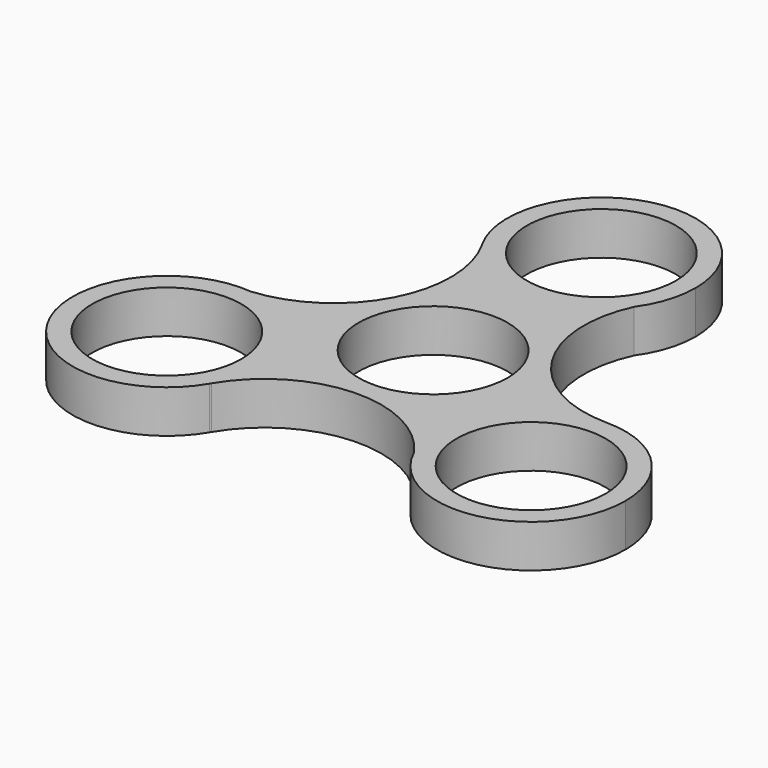
from build123d import *

# Parameters (mm, degrees)
F0_R     = 11.049
F1_DEPTH = 6.35
F2_DEPTH = 6.35


with BuildPart() as f1:
    # F0 (on Top) → F1 (new body)
    with BuildSketch(Plane.XY):
        with BuildLine():
            ThreePointArc((11.367233, 23.045917), (13.303405, 26.902848), (13.97, 31.166688))
            ThreePointArc((13.97, 31.166688), (-3.535139, 44.682001), (-12.180851, 24.326529))
            ThreePointArc((-12.180851, 24.326529), (-12.119797, 24.22086), (-12.059489, 24.114764))
            ThreePointArc((-12.059489, 24.114764), (-0.63672, 17.211205), (11.367233, 23.045917))
        make_face()
        with Locations((0, 31.166688)):
            Circle(F0_R, mode=Mode.SUBTRACT)
        with BuildLine():
            ThreePointArc((-12.059489, 24.114764), (-12.119797, 24.22086), (-12.180851, 24.326529))
            ThreePointArc((-12.180851, 24.326529), (-12.120632, 24.220381), (-12.059489, 24.114764))
        make_face()
        with BuildLine():
            ThreePointArc((26.913742, -1.613558), (12.420265, 6.479431), (11.367233, 23.045917))
            ThreePointArc((11.367233, 23.045917), (-0.63672, 17.211205), (-12.059489, 24.114764))
            ThreePointArc((-12.059489, 24.114764), (-11.821484, 7.51655), (-25.641966, -1.678646))
            ThreePointArc((-25.641966, -1.678646), (-16.646848, -6.194177), (-13.021143, -15.583344))
            ThreePointArc((-13.021143, -15.583344), (-13.487195, -19.16165), (-14.854254, -22.501205))
            ThreePointArc((-14.854254, -22.501205), (-0.598781, -13.995981), (14.274733, -21.367271))
            ThreePointArc((14.274733, -21.367271), (15.223701, -8.054187), (26.913742, -1.613558))
        make_face()
        Circle(F0_R, mode=Mode.SUBTRACT)
        with BuildLine():
            ThreePointArc((27.157817, -1.614338), (27.035778, -1.614378), (26.913742, -1.613558))
            ThreePointArc((26.913742, -1.613558), (15.223701, -8.054187), (14.274733, -21.367271))
            ThreePointArc((14.274733, -21.367271), (29.950252, -29.23635), (40.961143, -15.583344))
            ThreePointArc((40.961143, -15.583344), (36.928178, -5.764167), (27.157817, -1.614338))
        make_face()
        with Locations((26.991143, -15.583344)):
            Circle(F0_R, mode=Mode.SUBTRACT)
        with BuildLine():
            ThreePointArc((27.157817, -1.614338), (27.035782, -1.613415), (26.913742, -1.613558))
            ThreePointArc((26.913742, -1.613558), (27.035778, -1.614378), (27.157817, -1.614338))
        make_face()
        with BuildLine():
            ThreePointArc((-13.021143, -15.583344), (-16.646848, -6.194177), (-25.641966, -1.678646))
            ThreePointArc((-25.641966, -1.678646), (-39.450971, -21.901064), (-14.976967, -22.712191))
            ThreePointArc((-14.976967, -22.712191), (-14.915981, -22.606482), (-14.854254, -22.501205))
            ThreePointArc((-14.854254, -22.501205), (-13.487195, -19.16165), (-13.021143, -15.583344))
        make_face()
        with Locations((-26.991143, -15.583344)):
            Circle(F0_R, mode=Mode.SUBTRACT)
        with BuildLine():
            ThreePointArc((-14.854254, -22.501205), (-14.915981, -22.606482), (-14.976967, -22.712191))
            ThreePointArc((-14.976967, -22.712191), (-14.915149, -22.606966), (-14.854254, -22.501205))
        make_face()
    extrude(amount=F1_DEPTH)

    # F0 (on Top) → F2 (join)
    with BuildSketch(Plane.XY):
        with BuildLine():
            ThreePointArc((11.367233, 23.045917), (13.303405, 26.902848), (13.97, 31.166688))
            ThreePointArc((13.97, 31.166688), (-3.535139, 44.682001), (-12.180851, 24.326529))
            ThreePointArc((-12.180851, 24.326529), (-12.119797, 24.22086), (-12.059489, 24.114764))
            ThreePointArc((-12.059489, 24.114764), (-0.63672, 17.211205), (11.367233, 23.045917))
        make_face()
        with Locations((0, 31.166688)):
            Circle(F0_R, mode=Mode.SUBTRACT)
        with BuildLine():
            ThreePointArc((-12.059489, 24.114764), (-12.119797, 24.22086), (-12.180851, 24.326529))
            ThreePointArc((-12.180851, 24.326529), (-12.120632, 24.220381), (-12.059489, 24.114764))
        make_face()
        with BuildLine():
            ThreePointArc((26.913742, -1.613558), (12.420265, 6.479431), (11.367233, 23.045917))
            ThreePointArc((11.367233, 23.045917), (-0.63672, 17.211205), (-12.059489, 24.114764))
            ThreePointArc((-12.059489, 24.114764), (-11.821484, 7.51655), (-25.641966, -1.678646))
            ThreePointArc((-25.641966, -1.678646), (-16.646848, -6.194177), (-13.021143, -15.583344))
            ThreePointArc((-13.021143, -15.583344), (-13.487195, -19.16165), (-14.854254, -22.501205))
            ThreePointArc((-14.854254, -22.501205), (-0.598781, -13.995981), (14.274733, -21.367271))
            ThreePointArc((14.274733, -21.367271), (15.223701, -8.054187), (26.913742, -1.613558))
        make_face()
        Circle(F0_R, mode=Mode.SUBTRACT)
        with BuildLine():
            ThreePointArc((27.157817, -1.614338), (27.035778, -1.614378), (26.913742, -1.613558))
            ThreePointArc((26.913742, -1.613558), (15.223701, -8.054187), (14.274733, -21.367271))
            ThreePointArc((14.274733, -21.367271), (29.950252, -29.23635), (40.961143, -15.583344))
            ThreePointArc((40.961143, -15.583344), (36.928178, -5.764167), (27.157817, -1.614338))
        make_face()
        with Locations((26.991143, -15.583344)):
            Circle(F0_R, mode=Mode.SUBTRACT)
        with BuildLine():
            ThreePointArc((27.157817, -1.614338), (27.035782, -1.613415), (26.913742, -1.613558))
            ThreePointArc((26.913742, -1.613558), (27.035778, -1.614378), (27.157817, -1.614338))
        make_face()
        with BuildLine():
            ThreePointArc((-13.021143, -15.583344), (-16.646848, -6.194177), (-25.641966, -1.678646))
            ThreePointArc((-25.641966, -1.678646), (-39.450971, -21.901064), (-14.976967, -22.712191))
            ThreePointArc((-14.976967, -22.712191), (-14.915981, -22.606482), (-14.854254, -22.501205))
            ThreePointArc((-14.854254, -22.501205), (-13.487195, -19.16165), (-13.021143, -15.583344))
        make_face()
        with Locations((-26.991143, -15.583344)):
            Circle(F0_R, mode=Mode.SUBTRACT)
        with BuildLine():
            ThreePointArc((-14.854254, -22.501205), (-14.915981, -22.606482), (-14.976967, -22.712191))
            ThreePointArc((-14.976967, -22.712191), (-14.915149, -22.606966), (-14.854254, -22.501205))
        make_face()
    extrude(amount=F2_DEPTH)


solid = f1.part
